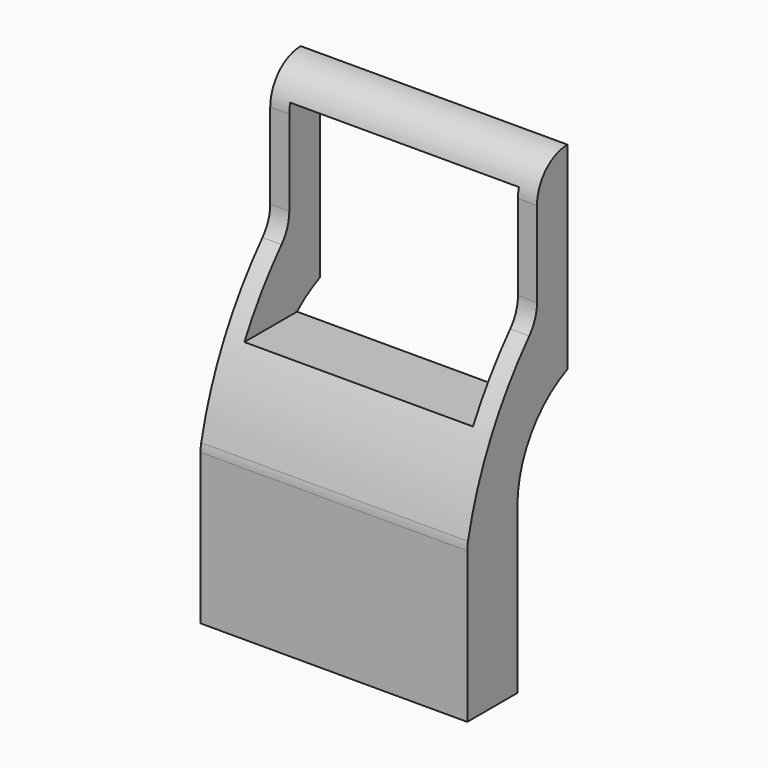
from build123d import *

# Parameters (mm, degrees)
F1_DEPTH = 7
F2_W     = 6
F2_H     = 4.91947
F3_DEPTH = 3.288103
F5_DEPTH = 7.001


with BuildPart() as f1:
    # F0 (on Right) → F1 (new body)
    with BuildSketch(Plane.YZ):
        with BuildLine():
            Line((-3.353103, 0.58162), (-0.066, 0.58162))
            Line((-0.066, 0.58162), (-0.066, 12.58162))
            ThreePointArc((-0.066, 12.58162), (-0.773107, 12.288727), (-1.066, 11.58162))
            Line((-1.066, 11.58162), (-1.066, 9.336664))
            ThreePointArc((-1.066, 9.336664), (-1.131912, 8.979622), (-1.32096, 8.669645))
            ThreePointArc((-1.32096, 8.669645), (-2.578651, 6.838208), (-3.329772, 4.74733))
            ThreePointArc((-3.329772, 4.74733), (-3.347253, 4.640585), (-3.353103, 4.532576))
            Line((-3.353103, 4.532576), (-3.353103, 0.58162))
        make_face()
    extrude(amount=F1_DEPTH)

    # F2 (on face) → F3 (cut, through all)
    with BuildSketch(Plane(origin=(0, -0.066, 0), x_dir=(-1, 0, 0), z_dir=(0, 1, 0))):
        with Locations((-3.5, 9.371885)):
            Rectangle(F2_W, F2_H)
    extrude(amount=-F3_DEPTH, mode=Mode.SUBTRACT)

    # F4 (on face) → F5 (cut, through all)
    with BuildSketch(Plane.YZ.offset(7)):
        with BuildLine():
            Line((-1.709552, 4.885615), (-1.709552, 0.58162))
            Line((-1.709552, 0.58162), (-0.066, 0.58162))
            Line((-0.066, 0.58162), (-0.066, 2.014811))
            Line((-0.066, 2.014811), (-0.066, 7.394113))
            ThreePointArc((-0.066, 7.394113), (-1.262072, 6.3851), (-1.709552, 4.885615))
        make_face()
    extrude(amount=-F5_DEPTH, mode=Mode.SUBTRACT)


solid = f1.part
